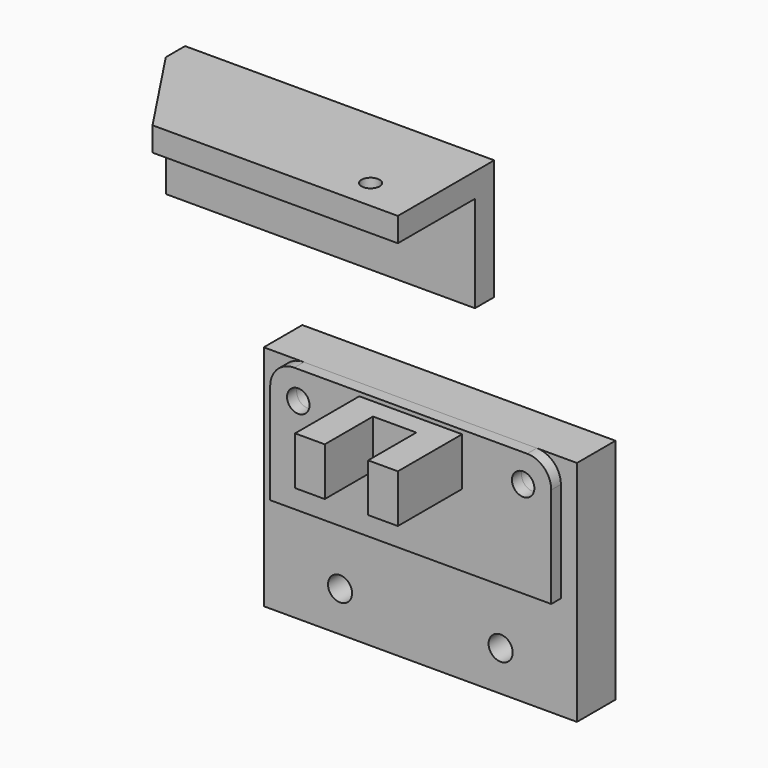
from build123d import *

# Parameters (mm, degrees)
F0_R      = 1.4
F1_DEPTH  = 1.5
F2_DEPTH  = 10
F3_W      = 5.4
F3_H      = 6
F4_DEPTH  = 7.5
F6_R      = 1.125
F6_W      = 38.5
F6_H      = 3
F7_DEPTH  = 3
F8_DEPTH  = 12
F9_R      = 1.5
F9_R_2    = 1.4
F10_DEPTH = 6


with BuildPart() as f1:
    # F0 (on Front) → F1 (new body)
    with BuildSketch(Plane.XZ):
        with BuildLine():
            ThreePointArc((17.5, 4.75), (16.6213203436, 6.8713203436), (14.5, 7.75))
            Line((14.5, 7.75), (-14.5, 7.75))
            ThreePointArc((-14.5, 7.75), (-16.6213203436, 6.8713203436), (-17.5, 4.75))
            Line((-17.5, 4.75), (-17.5, -7.75))
            Line((-17.5, -7.75), (17.5, -7.75))
            Line((17.5, -7.75), (17.5, 4.75))
        make_face()
        with Locations((-14, 4.25)):
            Circle(F0_R, mode=Mode.SUBTRACT)
        Polygon((6.4, 1.25), (-6.4, 1.25), (-6.4, 4.25), (-6.4, 7.25), (6.4, 7.25), (6.4, 4.25), align=None, mode=Mode.SUBTRACT)
        with Locations((14, 4.25)):
            Circle(F0_R, mode=Mode.SUBTRACT)
        Polygon((-6.4, 4.25), (-6.4, 1.25), (6.4, 1.25), (6.4, 4.25), (6.4, 7.25), (-6.4, 7.25), align=None)
    extrude(amount=-F1_DEPTH)

    # F0 (on Front) → F2 (join)
    with BuildSketch(Plane.XZ):
        Polygon((-6.4, 4.25), (-6.4, 1.25), (6.4, 1.25), (6.4, 4.25), (6.4, 7.25), (-6.4, 7.25), align=None)
    extrude(amount=F2_DEPTH)

    # F3 (on face) → F4 (cut)
    with BuildSketch(Plane.XZ.offset(10)):
        with Locations((0, 4.25)):
            Rectangle(F3_W, F3_H)
    extrude(amount=-F4_DEPTH, mode=Mode.SUBTRACT)


with BuildPart() as f7:
    # F6 (on offset) → F7 (new body)
    with BuildSketch(Plane.XY.offset(32.25)):
        Polygon((-24.1516847163, -10), (6.4, -10), (6.4, 2), (-32.1, 2), align=None)
        with Locations((0, -6.25)):
            Circle(F6_R, mode=Mode.SUBTRACT)
        with Locations((-12.85, 3.5)):
            Rectangle(F6_W, F6_H)
    extrude(amount=F7_DEPTH)

    # F6 (on offset) → F8 (join)
    with BuildSketch(Plane.XY.offset(32.25)):
        with Locations((-12.85, 3.5)):
            Rectangle(F6_W, F6_H)
    extrude(amount=-F8_DEPTH)


with BuildPart() as f10:
    # F9 (on face) → F10 (new body)
    with BuildSketch(Plane(origin=(0, 1.5, 0), x_dir=(-1, 0, 0), z_dir=(0, 1, 0))):
        with BuildLine():
            Line((17.5, -7.75), (-17.5, -7.75))
            Line((-17.5, -7.75), (-17.5, 4.75))
            ThreePointArc((-17.5, 4.75), (-16.6213203436, 6.8713203436), (-14.5, 7.75))
            Line((-14.5, 7.75), (-19.5, 7.75))
            Line((-19.5, 7.75), (-19.5, -7.75))
            Line((-19.5, -7.75), (-19.5, -20.6370297819))
            Line((-19.5, -20.6370297819), (19.5, -20.6370297819))
            Line((19.5, -20.6370297819), (19.5, -7.75))
            Line((19.5, -7.75), (19.5, 7.75))
            Line((19.5, 7.75), (14.5, 7.75))
            ThreePointArc((14.5, 7.75), (16.6213203436, 6.8713203436), (17.5, 4.75))
            Line((17.5, 4.75), (17.5, -7.75))
        make_face()
        with Locations((-10, -15.6370297819)):
            Circle(F9_R, mode=Mode.SUBTRACT)
        with Locations((10, -15.6370297819)):
            Circle(F9_R, mode=Mode.SUBTRACT)
        with BuildLine():
            Line((-17.5, 4.75), (-17.5, -7.75))
            Line((-17.5, -7.75), (17.5, -7.75))
            Line((17.5, -7.75), (17.5, 4.75))
            ThreePointArc((17.5, 4.75), (16.6213203436, 6.8713203436), (14.5, 7.75))
            Line((14.5, 7.75), (-14.5, 7.75))
            ThreePointArc((-14.5, 7.75), (-16.6213203436, 6.8713203436), (-17.5, 4.75))
        make_face()
        with Locations((-14, 4.25)):
            Circle(F9_R_2, mode=Mode.SUBTRACT)
        with Locations((14, 4.25)):
            Circle(F9_R_2, mode=Mode.SUBTRACT)
    extrude(amount=F10_DEPTH)


solid = Compound([f1.part, f7.part, f10.part])
